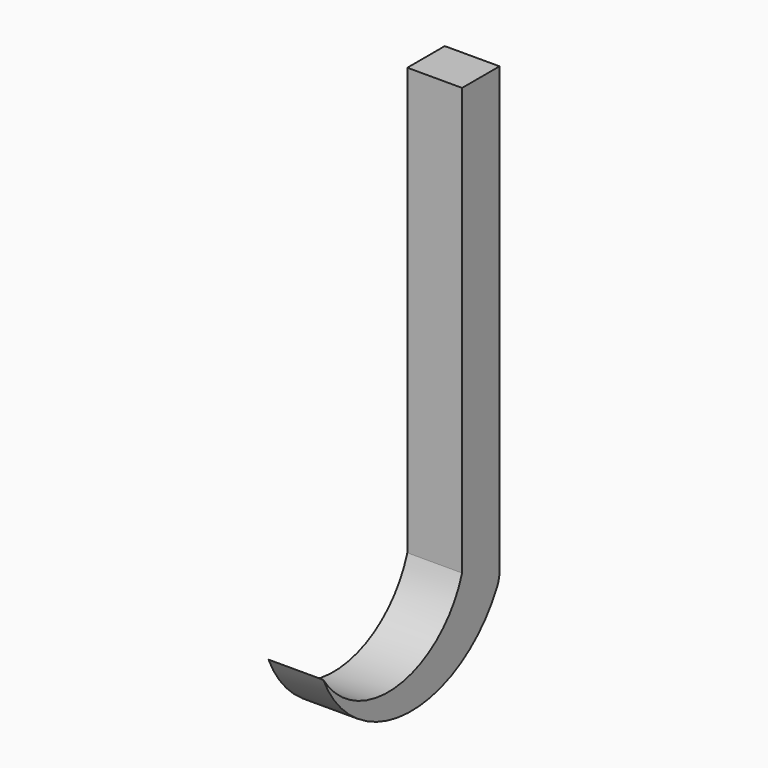
from build123d import *

# Parameters (mm, degrees)
F1_DEPTH = 12.7


with BuildPart() as f1:
    # F0 (on Right) → F1 (new body)
    with BuildSketch(Plane.YZ):
        with BuildLine():
            Line((-18.77171, -42.24451), (-18.77171, 60.838442))
            Line((-18.77171, 60.838442), (-29.627644, 60.838442))
            Line((-29.627644, 60.838442), (-29.627644, -38.221922))
            ThreePointArc((-29.627644, -38.221922), (-48.0446, -53.631362), (-69.885053, -43.64989))
            ThreePointArc((-69.885053, -43.64989), (-45.128132, -60.419661), (-19.449341, -45.098757))
            ThreePointArc((-19.449341, -45.098757), (-18.94344, -43.711302), (-18.77171, -42.24451))
        make_face()
    extrude(amount=F1_DEPTH)


solid = f1.part
